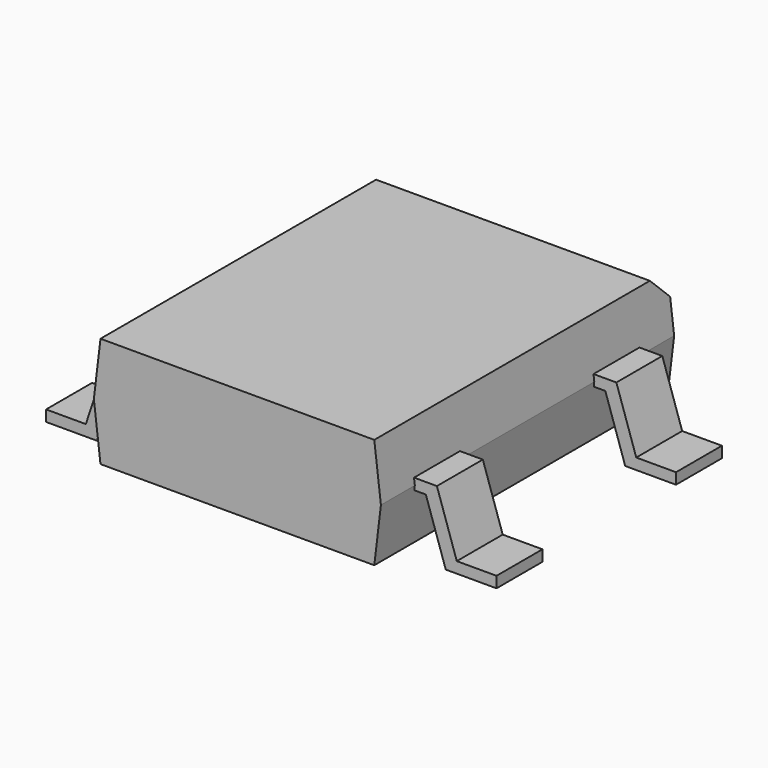
from build123d import *

# Parameters (mm, degrees)
PAD002_DEPTH = 0.65
PAD003_DEPTH = 0.65
PAD_DEPTH    = 4.15
CHAMFER_SIZE = 0.5


with BuildPart() as pad002:
    # Sketch002 → Pad002 (new body, symmetric)
    with BuildSketch(Plane.XZ.offset(-2.54)):
        Polygon((-5.1, 0), (-3.95, 0), (-3.5, 1.35), (3.5, 1.35), (3.95, 0), (5.1, 0), (5.1, 0.25), (4.2, 0.25), (3.75, 1.6), (-3.75, 1.6), (-4.2, 0.25), (-5.1, 0.25), align=None)
    extrude(amount=PAD002_DEPTH, both=True)


with BuildPart() as pad003:
    # Sketch003 → Pad003 (new body, symmetric)
    with BuildSketch(Plane.XZ.offset(2.54)):
        Polygon((-5.1, 0), (-3.95, 0), (-3.5, 1.35), (3.5, 1.35), (3.95, 0), (5.1, 0), (5.1, 0.25), (4.2, 0.25), (3.75, 1.6), (-3.75, 1.6), (-4.2, 0.25), (-5.1, 0.25), align=None)
    extrude(amount=PAD003_DEPTH, both=True)


with BuildPart() as obj1:
    # Sketch → Pad (new body, symmetric)
    with BuildSketch(Plane.XZ):
        Polygon((-3.1, 0.2), (3.1, 0.2), (3.25, 1.45), (3.1, 2.7), (-3.1, 2.7), (-3.25, 1.45), align=None)
    extrude(amount=PAD_DEPTH, both=True)

    # Chamfer
    chamfer_edges = [obj1.edges().sort_by_distance(p)[0] for p in [
        (0, 4.15, 2.7),
    ]]
    chamfer(chamfer_edges, length=CHAMFER_SIZE)

    add(pad002.part)
    add(pad003.part)


solid = obj1.part
